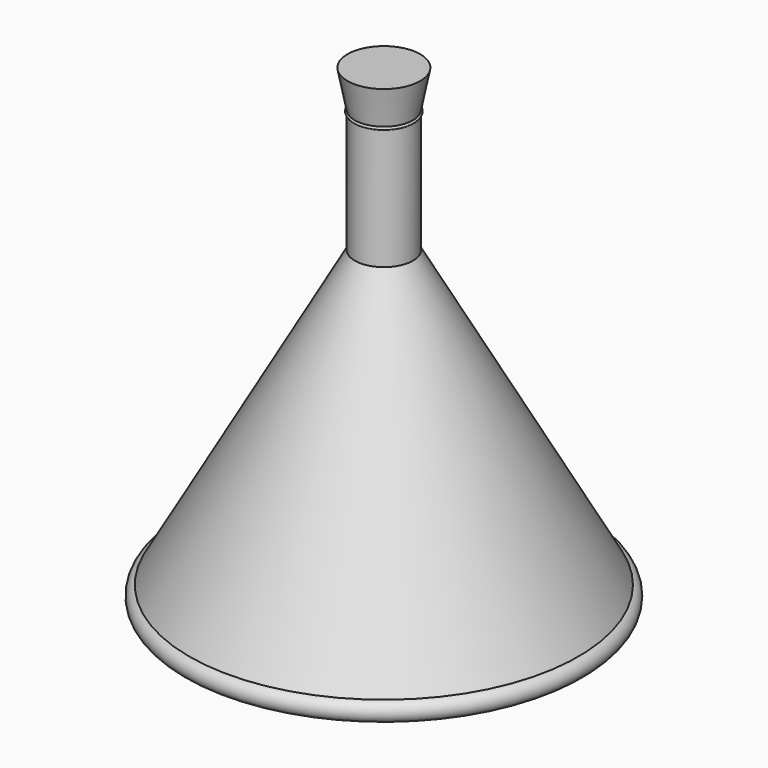
from build123d import *


with BuildPart() as f1:
    # F0 (on Front) → F1 (revolve)
    with BuildSketch(Plane.XZ):
        with BuildLine():
            Line((0, -30.701512), (0, 32.097038))
            Line((0, 32.097038), (-4.80864, 32.097038))
            Line((-4.80864, 32.097038), (-3.848166, 27.213862))
            ThreePointArc((-3.848166, 27.213862), (-4.004744, 27.029344), (-3.848166, 26.844826))
            Line((-3.848166, 26.844826), (-3.848166, 10.868099))
            Line((-3.848166, 10.868099), (-25.719602, -28.09778))
            ThreePointArc((-25.719602, -28.09778), (-26.666783, -29.559318), (-25.352007, -30.701512))
            Line((-25.352007, -30.701512), (0, -30.701512))
        make_face()
    revolve(axis=Axis((0, 0, 0.697763), (0, 0, -1)))


solid = f1.part
